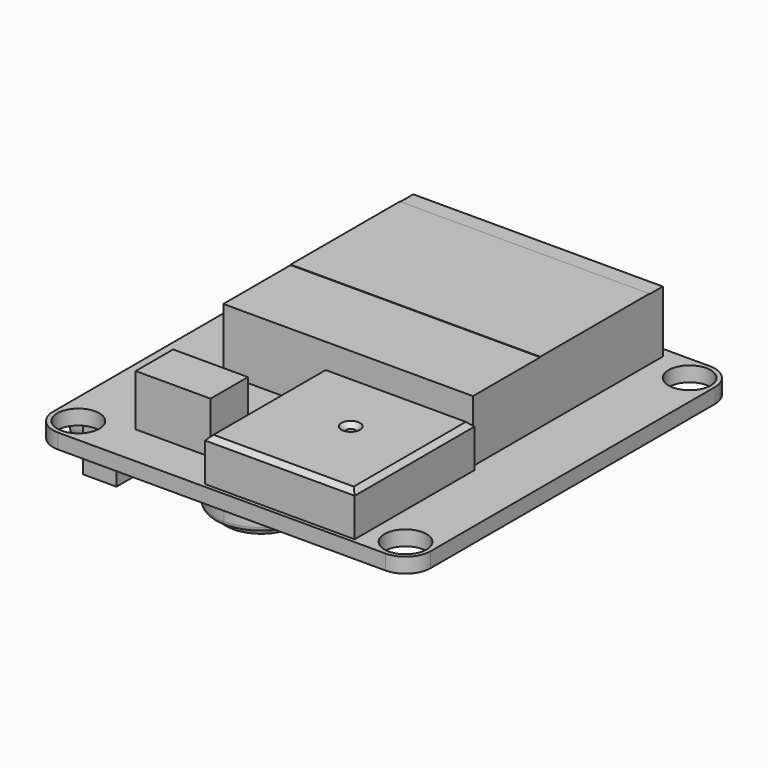
from build123d import *

# Parameters (mm, degrees)
F0_R      = 2.25
F1_DEPTH  = 0.8
F3_W      = 2.1
F3_H      = 16
F4_DEPTH  = 4.6
F5_DEPTH  = 5.5
F3_W_2    = 26.7
F3_H_2    = 1.8
F6_DEPTH  = 6.6
F3_H_3    = 14.6
F7_DEPTH  = 6.65
F9_W      = 3.6
F9_H      = 7.2
F10_DEPTH = 7
F12_W     = 3.3
F12_H     = 1.75
F12_H_2   = 1.65
F16_DEPTH = 2.5
F17_DEPTH = 1.7
F18_R     = 0.5
F19_SIZE  = 0.5
F20_DEPTH = 2.8


with BuildPart() as f1:
    # F0 (on Top) → F1 (new body, symmetric)
    with BuildSketch(Plane.XY):
        with BuildLine():
            Line((-17.5, -21.7), (17.5, -21.7))
            ThreePointArc((17.5, -21.7), (19.4091883092, -20.9091883092), (20.2, -19))
            Line((20.2, -19), (20.2, 19))
            ThreePointArc((20.2, 19), (19.4091883092, 20.9091883092), (17.5, 21.7))
            Line((17.5, 21.7), (-17.5, 21.7))
            ThreePointArc((-17.5, 21.7), (-19.4091883092, 20.9091883092), (-20.2, 19))
            Line((-20.2, 19), (-20.2, -19))
            ThreePointArc((-20.2, -19), (-19.4091883092, -20.9091883092), (-17.5, -21.7))
        make_face()
        with Locations((-17.5, -19)):
            Circle(F0_R, mode=Mode.SUBTRACT)
        with Locations((17.5, -19)):
            Circle(F0_R, mode=Mode.SUBTRACT)
        with Locations((-17.5, 19)):
            Circle(F0_R, mode=Mode.SUBTRACT)
        with Locations((17.5, 19)):
            Circle(F0_R, mode=Mode.SUBTRACT)
    extrude(amount=F1_DEPTH, both=True)

    # F3 (on offset) → F4 (join)
    with BuildSketch(Plane.XY.offset(0.8)):
        with Locations((-1.05, -13.3)):
            Rectangle(F3_W, F3_H)
        Polygon((0, -5.3), (0, -21.3), (5.9, -21.3), (13.9, -21.3), (13.9, -5.3), align=None)
        with BuildLine():
            ThreePointArc((6.9, -12.45), (6.7535533906, -12.8035533906), (6.4, -12.95))
            ThreePointArc((6.4, -12.95), (6.0464466094, -12.0964466094), (6.9, -12.45))
        make_face(mode=Mode.SUBTRACT)
    extrude(amount=F4_DEPTH)

    # F3 (on offset) → F5 (join)
    with BuildSketch(Plane.XY.offset(0.8)):
        Polygon((-8.8, -17.2), (-4.8, -17.2), (-4.8, -12.2), (-12.8, -12.2), (-12.8, -17.2), align=None)
    extrude(amount=F5_DEPTH)

    # F3 (on offset) → F6 (join)
    with BuildSketch(Plane.XY.offset(0.8)):
        with Locations((0, 19.7)):
            Rectangle(F3_W_2, F3_H_2)
        Polygon((-13.35, 4.2), (-13.35, -4.8), (0, -4.8), (13.35, -4.8), (13.35, 4.2), align=None)
    extrude(amount=F6_DEPTH)

    # F3 (on offset) → F7 (join)
    with BuildSketch(Plane.XY.offset(0.8)):
        with Locations((0, 11.5)):
            Rectangle(F3_W_2, F3_H_3)
    extrude(amount=F7_DEPTH)

    # F9 (on offset) → F10 (join)
    with BuildSketch(Plane(origin=(0, 0, -0.8), x_dir=(1, 0, 0), z_dir=(0, 0, -1))):
        with Locations((-19.7, -10.6)):
            Rectangle(F9_W, F9_H)
        with Locations((-19.7, -0.4)):
            Rectangle(F9_W, F9_H)
        with Locations((-19.7, 9.8)):
            Rectangle(F9_W, F9_H)
    extrude(amount=F10_DEPTH)

    # F12 (on offset) → F13 (revolve)
    with BuildSketch(Plane(origin=(0, 0, -4.8), x_dir=(1, 0, 0), z_dir=(0, 0, -1))):
        with Locations((-22.65, 9.025)):
            Rectangle(F12_W, F12_H)
    revolve(axis=Axis((-22.65, -9.9, -4.8), (-1, 0, 0)))

    # F12 (on offset) → F14 (revolve)
    with BuildSketch(Plane(origin=(0, 0, -4.8), x_dir=(1, 0, 0), z_dir=(0, 0, -1))):
        with Locations((-22.65, -1.025)):
            Rectangle(F12_W, F12_H_2)
    revolve(axis=Axis((-22.65, 0.2, -4.8), (-1, 0, 0)))

    # F12 (on offset) → F15 (revolve)
    with BuildSketch(Plane(origin=(0, 0, -4.8), x_dir=(1, 0, 0), z_dir=(0, 0, -1))):
        with Locations((-22.65, -11.175)):
            Rectangle(F12_W, F12_H)
    revolve(axis=Axis((-22.65, 10.3, -4.8), (-1, 0, 0)))

    # F9 (on offset) → F16 (join)
    with BuildSketch(Plane(origin=(0, 0, -0.8), x_dir=(1, 0, 0), z_dir=(0, 0, -1))):
        with BuildLine():
            Line((0, 14.9), (0, 12.375))
            ThreePointArc((0, 12.375), (2.8461047943, 13.5538952057), (4.025, 16.4))
            ThreePointArc((4.025, 16.4), (2.8461047943, 19.2461047943), (0, 20.425))
            Line((0, 20.425), (0, 17.9))
            Line((0, 17.9), (1.5, 17.9))
            Line((1.5, 17.9), (1.5, 14.9))
            Line((1.5, 14.9), (0, 14.9))
        make_face()
        with BuildLine():
            ThreePointArc((0, 20.425), (-4.025, 16.4), (0, 12.375))
            Line((0, 12.375), (0, 14.9))
            Line((0, 14.9), (-1.5, 14.9))
            Line((-1.5, 14.9), (-1.5, 17.9))
            Line((-1.5, 17.9), (0, 17.9))
            Line((0, 17.9), (0, 20.425))
        make_face()
    extrude(amount=F16_DEPTH)

    # F9 (on offset) → F17 (join)
    with BuildSketch(Plane(origin=(0, 0, -0.8), x_dir=(1, 0, 0), z_dir=(0, 0, -1))):
        with BuildLine():
            Line((0, 12.375), (0, 11.4))
            ThreePointArc((0, 11.4), (3.5355339059, 12.8644660941), (5, 16.4))
            ThreePointArc((5, 16.4), (3.5355339059, 19.9355339059), (0, 21.4))
            Line((0, 21.4), (0, 20.425))
            ThreePointArc((0, 20.425), (2.8461047943, 19.2461047943), (4.025, 16.4))
            ThreePointArc((4.025, 16.4), (2.8461047943, 13.5538952057), (0, 12.375))
        make_face()
        with BuildLine():
            ThreePointArc((0, 21.4), (-5, 16.4), (0, 11.4))
            Line((0, 11.4), (0, 12.375))
            ThreePointArc((0, 12.375), (-4.025, 16.4), (0, 20.425))
            Line((0, 20.425), (0, 21.4))
        make_face()
    extrude(amount=F17_DEPTH)

    # F18
    f18_edges = [f1.edges().sort_by_distance(p)[0] for p in [
        (-5, -16.4, -2.5),
        (-4.025, -16.4, -3.3),
    ]]
    fillet(f18_edges, radius=F18_R)

    # F19
    f19_edges = [f1.edges().sort_by_distance(p)[0] for p in [
        (5.9, -21.3, 5.4),
        (13.9, -13.3, 5.4),
        (5.9, -5.3, 5.4),
        (-2.1, -13.3, 5.4),
        (5.9, -12.45, 5.4),
    ]]
    chamfer(f19_edges, length=F19_SIZE)

    # F9 (on offset) → F20 (join)
    with BuildSketch(Plane(origin=(0, 0, -0.8), x_dir=(1, 0, 0), z_dir=(0, 0, -1))):
        Polygon((0, 16.4), (0, 14.9), (1.5, 14.9), (1.5, 17.9), (0, 17.9), align=None)
        Polygon((-1.5, 14.9), (0, 14.9), (0, 16.4), (0, 17.9), (-1.5, 17.9), align=None)
    extrude(amount=F20_DEPTH)


solid = f1.part
